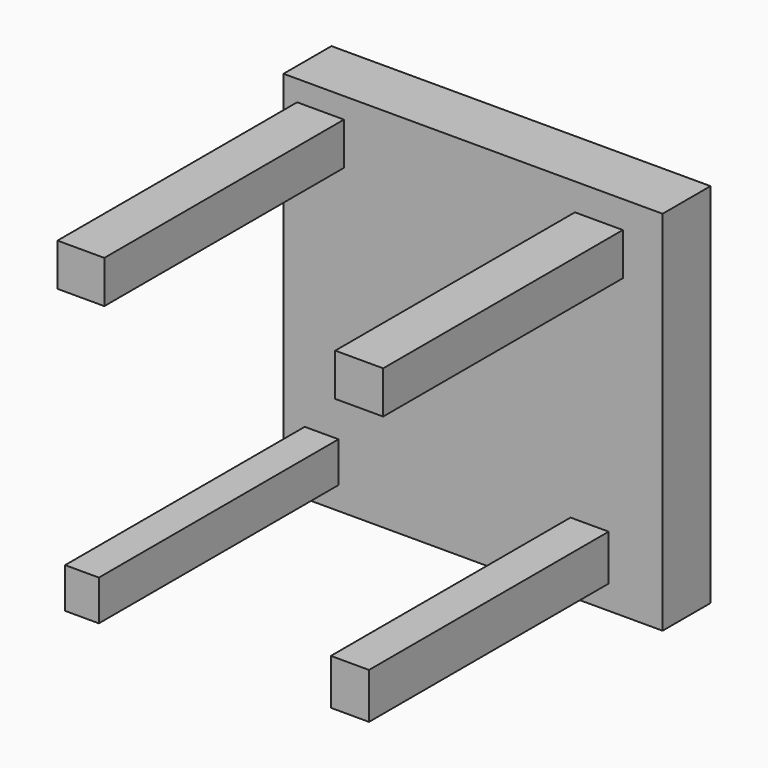
from build123d import *

# Parameters (mm, degrees)
F0_W     = 80.35636
F0_H     = 77.816363
F1_DEPTH = 12.7
F2_W     = 9.929092
F2_H     = 9.005454
F3_DEPTH = 76.2
F4_W     = 10.160005
F4_H     = 9.005454
F5_DEPTH = 76.2
F6_W     = 7.158185
F6_H     = 8.543637
F7_DEPTH = 76.2
F8_W     = 8.081818
F8_H     = 9.698183
F9_DEPTH = 76.2


with BuildPart() as f1:
    # F0 (on Front) → F1 (new body)
    with BuildSketch(Plane.XZ):
        with Locations((1.965884, -2.309089)):
            Rectangle(F0_W, F0_H)
    extrude(amount=F1_DEPTH)

    # F2 (on Front) → F3 (join)
    with BuildSketch(Plane.XZ):
        with Locations((-30.364546, 27.709091)):
            Rectangle(F2_W, F2_H)
    extrude(amount=F3_DEPTH)

    # F4 (on Front) → F5 (join)
    with BuildSketch(Plane.XZ):
        with Locations((28.632728, 26.323637)):
            Rectangle(F4_W, F4_H)
    extrude(amount=F5_DEPTH)

    # F6 (on Front) → F7 (join)
    with BuildSketch(Plane.XZ):
        with Locations((-30.133637, -32.096365)):
            Rectangle(F6_W, F6_H)
    extrude(amount=F7_DEPTH)

    # F8 (on Front) → F9 (join)
    with BuildSketch(Plane.XZ):
        with Locations((26.670001, -31.28818)):
            Rectangle(F8_W, F8_H)
    extrude(amount=F9_DEPTH)


solid = f1.part
